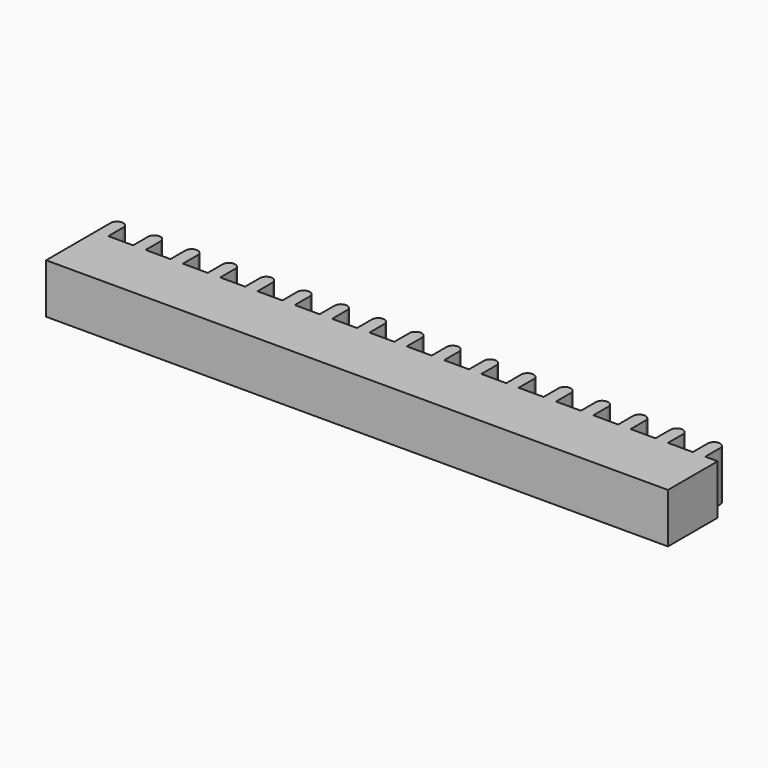
from build123d import *

# Parameters (mm, degrees)
F1_DEPTH = 10.16


with BuildPart() as f1:
    # F0 (on Top) → F1 (new body)
    with BuildSketch(Plane.XY):
        with BuildLine():
            Line((-63.5, 6.35), (-63.5, -6.35))
            Line((-63.5, -6.35), (63.5, -6.35))
            Line((63.5, -6.35), (63.5, 6.35))
            Line((63.5, 6.35), (60.96, 6.35))
            Line((60.96, 6.35), (58.42, 6.35))
            Line((58.42, 6.35), (53.34, 6.35))
            Line((53.34, 6.35), (50.8, 6.35))
            Line((50.8, 6.35), (45.72, 6.35))
            Line((45.72, 6.35), (43.18, 6.35))
            Line((43.18, 6.35), (38.1, 6.35))
            Line((38.1, 6.35), (35.56, 6.35))
            Line((35.56, 6.35), (30.48, 6.35))
            Line((30.48, 6.35), (27.94, 6.35))
            Line((27.94, 6.35), (22.86, 6.35))
            Line((22.86, 6.35), (20.32, 6.35))
            Line((20.32, 6.35), (15.24, 6.35))
            Line((15.24, 6.35), (12.7, 6.35))
            Line((12.7, 6.35), (7.62, 6.35))
            Line((7.62, 6.35), (5.08, 6.35))
            Line((5.08, 6.35), (0, 6.35))
            Line((0, 6.35), (-2.54, 6.35))
            Line((-2.54, 6.35), (-7.62, 6.35))
            Line((-7.62, 6.35), (-10.16, 6.35))
            Line((-10.16, 6.35), (-15.24, 6.35))
            Line((-15.24, 6.35), (-17.78, 6.35))
            Line((-17.78, 6.35), (-22.86, 6.35))
            Line((-22.86, 6.35), (-25.4, 6.35))
            Line((-25.4, 6.35), (-30.48, 6.35))
            Line((-30.48, 6.35), (-33.02, 6.35))
            Line((-33.02, 6.35), (-38.1, 6.35))
            Line((-38.1, 6.35), (-40.64, 6.35))
            Line((-40.64, 6.35), (-45.72, 6.35))
            Line((-45.72, 6.35), (-48.26, 6.35))
            Line((-48.26, 6.35), (-53.34, 6.35))
            Line((-53.34, 6.35), (-55.88, 6.35))
            Line((-55.88, 6.35), (-60.96, 6.35))
            Line((-60.96, 6.35), (-60.96, 10.16))
            ThreePointArc((-60.96, 10.16), (-62.23, 11.43), (-63.5, 10.16))
            Line((-63.5, 10.16), (-63.5, 6.35))
        make_face()
        with BuildLine():
            Line((58.42, 6.35), (60.96, 6.35))
            Line((60.96, 6.35), (60.96, 10.16))
            ThreePointArc((60.96, 10.16), (59.69, 11.43), (58.42, 10.16))
            Line((58.42, 10.16), (58.42, 6.35))
        make_face()
        with BuildLine():
            Line((-55.88, 10.16), (-55.88, 6.35))
            Line((-55.88, 6.35), (-53.34, 6.35))
            Line((-53.34, 6.35), (-53.34, 10.16))
            ThreePointArc((-53.34, 10.16), (-54.61, 11.43), (-55.88, 10.16))
        make_face()
        with BuildLine():
            Line((50.8, 6.35), (53.34, 6.35))
            Line((53.34, 6.35), (53.34, 10.16))
            ThreePointArc((53.34, 10.16), (52.07, 11.43), (50.8, 10.16))
            Line((50.8, 10.16), (50.8, 6.35))
        make_face()
        with BuildLine():
            Line((-48.26, 10.16), (-48.26, 6.35))
            Line((-48.26, 6.35), (-45.72, 6.35))
            Line((-45.72, 6.35), (-45.72, 10.16))
            ThreePointArc((-45.72, 10.16), (-46.99, 11.43), (-48.26, 10.16))
        make_face()
        with BuildLine():
            Line((43.18, 6.35), (45.72, 6.35))
            Line((45.72, 6.35), (45.72, 10.16))
            ThreePointArc((45.72, 10.16), (44.45, 11.43), (43.18, 10.16))
            Line((43.18, 10.16), (43.18, 6.35))
        make_face()
        with BuildLine():
            Line((-40.64, 10.16), (-40.64, 6.35))
            Line((-40.64, 6.35), (-38.1, 6.35))
            Line((-38.1, 6.35), (-38.1, 10.16))
            ThreePointArc((-38.1, 10.16), (-39.37, 11.43), (-40.64, 10.16))
        make_face()
        with BuildLine():
            Line((35.56, 6.35), (38.1, 6.35))
            Line((38.1, 6.35), (38.1, 10.16))
            ThreePointArc((38.1, 10.16), (36.83, 11.43), (35.56, 10.16))
            Line((35.56, 10.16), (35.56, 6.35))
        make_face()
        with BuildLine():
            Line((-33.02, 10.16), (-33.02, 6.35))
            Line((-33.02, 6.35), (-30.48, 6.35))
            Line((-30.48, 6.35), (-30.48, 10.16))
            ThreePointArc((-30.48, 10.16), (-31.75, 11.43), (-33.02, 10.16))
        make_face()
        with BuildLine():
            Line((27.94, 6.35), (30.48, 6.35))
            Line((30.48, 6.35), (30.48, 10.16))
            ThreePointArc((30.48, 10.16), (29.21, 11.43), (27.94, 10.16))
            Line((27.94, 10.16), (27.94, 6.35))
        make_face()
        with BuildLine():
            Line((-25.4, 10.16), (-25.4, 6.35))
            Line((-25.4, 6.35), (-22.86, 6.35))
            Line((-22.86, 6.35), (-22.86, 10.16))
            ThreePointArc((-22.86, 10.16), (-24.13, 11.43), (-25.4, 10.16))
        make_face()
        with BuildLine():
            Line((20.32, 6.35), (22.86, 6.35))
            Line((22.86, 6.35), (22.86, 10.16))
            ThreePointArc((22.86, 10.16), (21.59, 11.43), (20.32, 10.16))
            Line((20.32, 10.16), (20.32, 6.35))
        make_face()
        with BuildLine():
            Line((-17.78, 10.16), (-17.78, 6.35))
            Line((-17.78, 6.35), (-15.24, 6.35))
            Line((-15.24, 6.35), (-15.24, 10.16))
            ThreePointArc((-15.24, 10.16), (-16.51, 11.43), (-17.78, 10.16))
        make_face()
        with BuildLine():
            Line((12.7, 6.35), (15.24, 6.35))
            Line((15.24, 6.35), (15.24, 10.16))
            ThreePointArc((15.24, 10.16), (13.97, 11.43), (12.7, 10.16))
            Line((12.7, 10.16), (12.7, 6.35))
        make_face()
        with BuildLine():
            Line((-10.16, 10.16), (-10.16, 6.35))
            Line((-10.16, 6.35), (-7.62, 6.35))
            Line((-7.62, 6.35), (-7.62, 10.16))
            ThreePointArc((-7.62, 10.16), (-8.89, 11.43), (-10.16, 10.16))
        make_face()
        with BuildLine():
            Line((5.08, 6.35), (7.62, 6.35))
            Line((7.62, 6.35), (7.62, 10.16))
            ThreePointArc((7.62, 10.16), (6.35, 11.43), (5.08, 10.16))
            Line((5.08, 10.16), (5.08, 6.35))
        make_face()
        with BuildLine():
            Line((-2.54, 10.16), (-2.54, 6.35))
            Line((-2.54, 6.35), (0, 6.35))
            Line((0, 6.35), (0, 10.16))
            ThreePointArc((0, 10.16), (-1.27, 11.43), (-2.54, 10.16))
        make_face()
    extrude(amount=F1_DEPTH)


solid = f1.part
